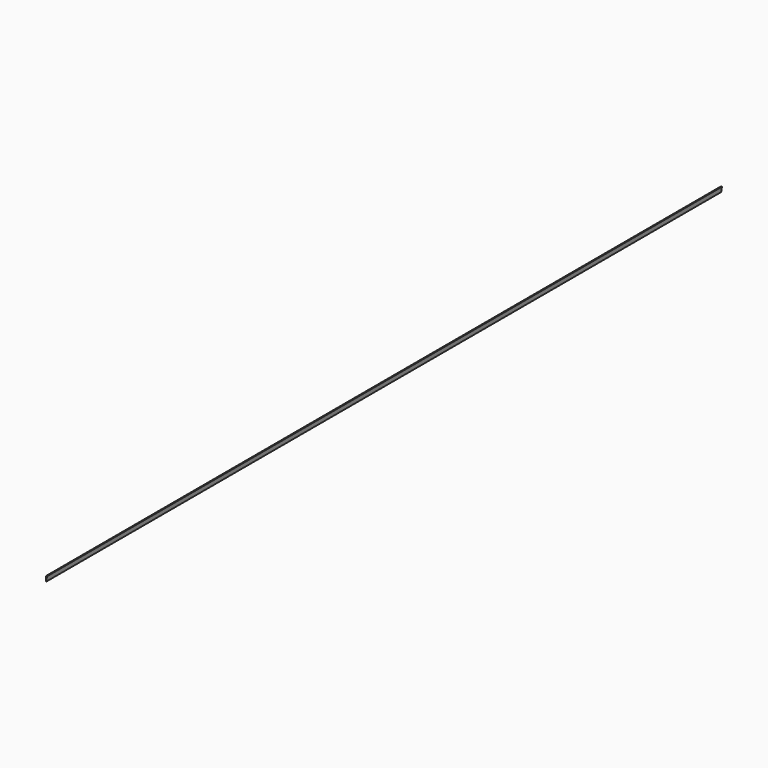
from build123d import *

# Parameters (mm, degrees)
F1_DEPTH = 5000
F3_DEPTH = 5000.001


with BuildPart() as f1:
    # F0 (on Front) → F1 (new body)
    with BuildSketch(Plane.XZ):
        with BuildLine():
            Line((0, 0), (4.8531071868, 31.6298490454))
            ThreePointArc((4.8531071868, 31.6298490454), (2.0779166622, 31.9324640819), (-0.7130880628, 31.9920537855))
            Line((-0.7130880628, 31.9920537855), (0, 0))
        make_face()
    extrude(amount=F1_DEPTH)

    # F2 (on face) → F3 (cut, through all)
    with BuildSketch(Plane.XZ.offset(5000)):
        with BuildLine():
            Line((0, 0), (0.379148999, 2.4710819567))
            ThreePointArc((0.379148999, 2.4710819567), (0.1623372392, 2.4947237564), (-0.0557100049, 2.499379202))
            Line((-0.0557100049, 2.499379202), (0, 0))
        make_face()
    extrude(amount=-F3_DEPTH, mode=Mode.SUBTRACT)


solid = f1.part
